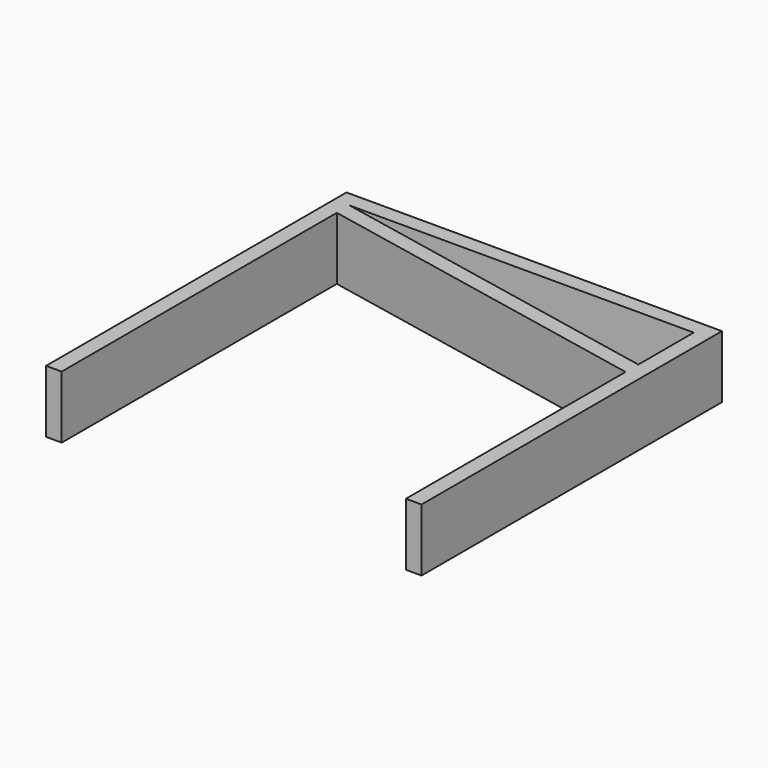
from build123d import *

# Parameters (mm, degrees)
F1_DEPTH = 25.4


with BuildPart() as f1:
    # F0 (on Top) → F1 (new body)
    with BuildSketch(Plane.XY):
        Polygon((33.9331330414, 75.6159778476), (-70.498089695, 75.6159778476), (-70.498089695, 69.2659778476), (32.5552657769, 69.2659778476), (47.8764143692, 69.2659778476), align=None)
        Polygon((-70.498089695, 69.2659778476), (-76.848089695, 70.5451115148), (-76.848089695, -76.7840221524), (-70.498089695, -76.7840221524), (-70.498089695, 48.7356329501), (-70.498089695, 55.0856329501), (-70.498089695, 62.788425614), align=None)
        Polygon((-70.498089695, 75.6159778476), (-76.848089695, 75.6159778476), (-76.848089695, 70.5451115148), (-70.498089695, 69.2659778476), align=None)
        Polygon((69.201910305, 41.1250371688), (-70.498089695, 69.2659778476), (-70.498089695, 62.788425614), (69.201910305, 34.6474849352), align=None)
        Polygon((69.201910305, 75.6159778476), (33.9331330414, 75.6159778476), (47.8764143692, 69.2659778476), (69.201910305, 69.2659778476), align=None)
        Polygon((75.551910305, 75.6159778476), (69.201910305, 75.6159778476), (69.201910305, 69.2659778476), (69.201910305, 59.5539957101), (75.551910305, 56.6621011085), align=None)
        Polygon((69.201910305, 55.0856329501), (69.201910305, 52.5764922607), (75.551910305, 49.6845976591), (75.551910305, 56.6621011085), (69.201910305, 59.5539957101), align=None)
        Polygon((69.201910305, 48.7356329501), (69.201910305, 41.1250371688), (75.551910305, 39.8459035016), (75.551910305, 49.6845976591), (69.201910305, 52.5764922607), align=None)
        Polygon((75.551910305, 39.8459035016), (69.201910305, 41.1250371688), (69.201910305, 34.6474849352), (75.551910305, 33.368351268), align=None)
        Polygon((75.551910305, 33.368351268), (69.201910305, 34.6474849352), (69.201910305, -76.7840221524), (75.551910305, -76.7840221524), (75.551910305, 16.1954189275), (75.551910305, 22.853401829), align=None)
    extrude(amount=F1_DEPTH)


solid = f1.part
